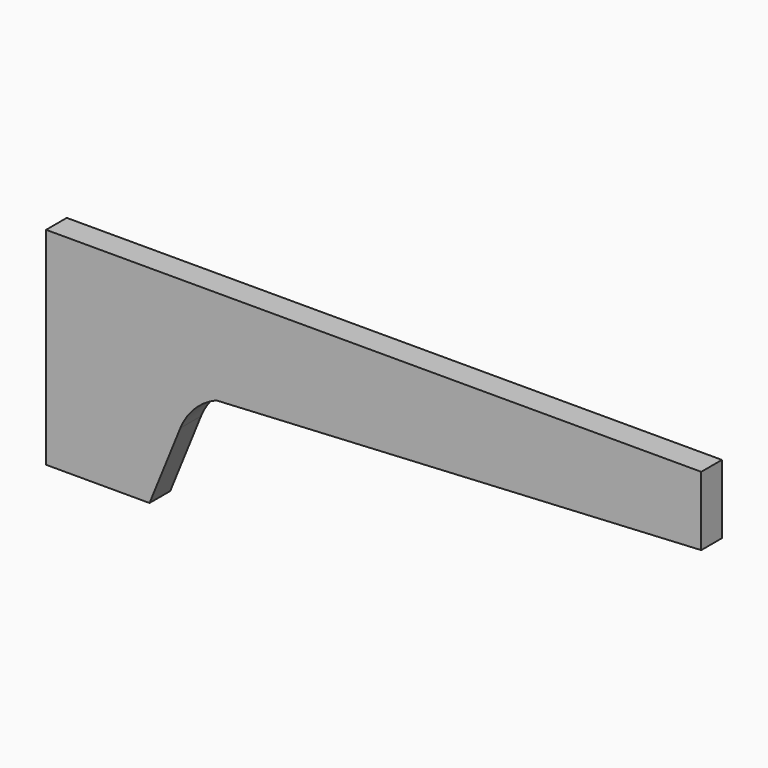
from build123d import *

# Parameters (mm, degrees)
F1_DEPTH = 2.38125


with BuildPart() as f1:
    # F0 (on Front) → F1 (new body)
    with BuildSketch(Plane.XZ):
        with BuildLine():
            Line((60.325, 19.05), (0, 19.05))
            Line((0, 19.05), (0, 0))
            Line((0, 0), (9.525, 0))
            Line((9.525, 0), (12.360475, 6.994451))
            ThreePointArc((12.360475, 6.994451), (13.677601, 8.989086), (15.663421, 10.319465))
            Line((15.663421, 10.319465), (60.325, 12.7))
            Line((60.325, 12.7), (60.325, 19.05))
        make_face()
    extrude(amount=F1_DEPTH)


solid = f1.part
